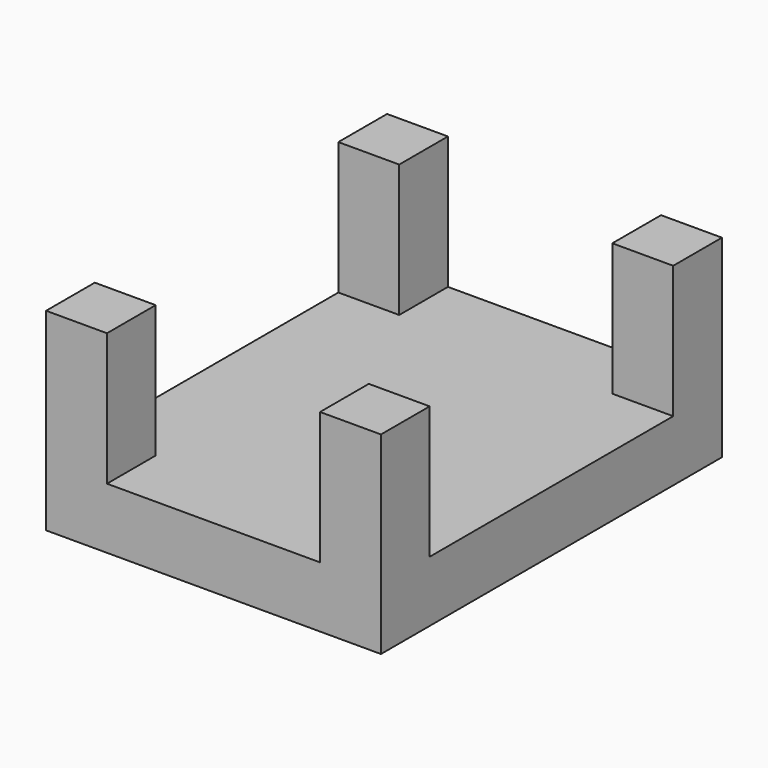
from build123d import *

# Parameters (mm, degrees)
F1_DEPTH = 10
F0_W     = 10
F0_H     = 10
F2_DEPTH = 31.75


with BuildPart() as f1:
    # F0 (on Top) → F1 (new body)
    with BuildSketch(Plane.XY):
        Polygon((-17.5, -35), (0, -35), (0, 0), (-27.5, 0), (-27.5, -25), (-17.5, -25), align=None)
        Polygon((-27.5, 0), (0, 0), (0, 35), (-17.5, 35), (-17.5, 25), (-27.5, 25), align=None)
        Polygon((0, 0), (27.5, 0), (27.5, 25), (17.5, 25), (17.5, 35), (0, 35), align=None)
        Polygon((0, -35), (17.5, -35), (17.5, -25), (27.5, -25), (27.5, 0), (0, 0), align=None)
    extrude(amount=F1_DEPTH)

    # F0 (on Top) → F2 (join)
    with BuildSketch(Plane.XY):
        with Locations((22.5, 30)):
            Rectangle(F0_W, F0_H)
        with Locations((-22.5, 30)):
            Rectangle(F0_W, F0_H)
        with Locations((-22.5, -30)):
            Rectangle(F0_W, F0_H)
        with Locations((22.5, -30)):
            Rectangle(F0_W, F0_H)
    extrude(amount=F2_DEPTH)


solid = f1.part
